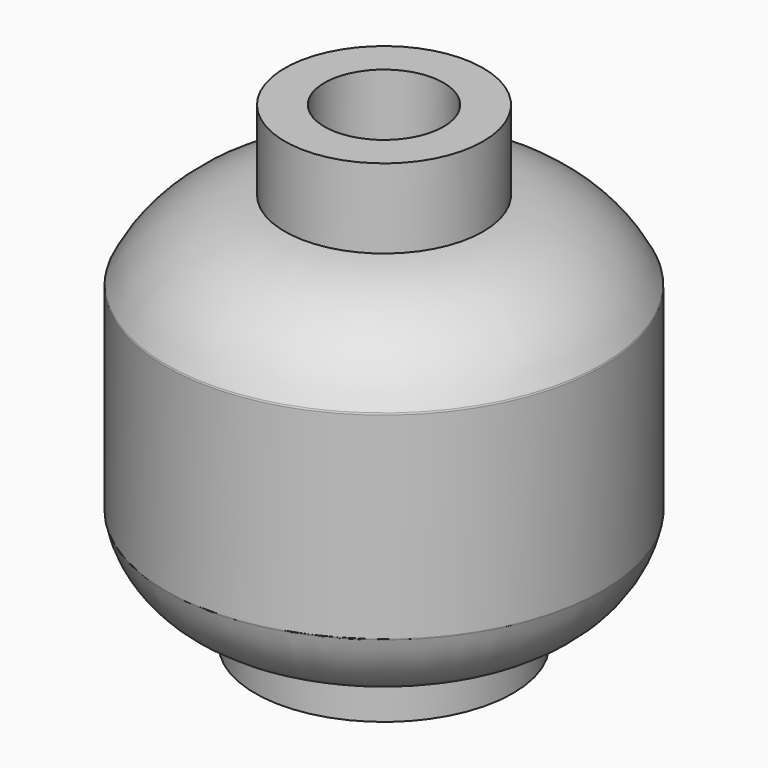
from build123d import *

# Parameters (mm, degrees)
F2_R     = 0.1
F3_R     = 0.6
F4_DEPTH = 25


with BuildPart() as f1:
    # F0 (on Front) → F1 (revolve)
    with BuildSketch(Plane.XZ):
        with BuildLine():
            Line((2.5, 6), (1.5, 6))
            Line((1.5, 6), (1.5, 3.25))
            ThreePointArc((1.5, 3.25), (3.149178, 2.983027), (4.5, 2))
            Line((4.5, 2), (4.5, -3))
            ThreePointArc((4.5, -3), (3.548227, -3.936809), (2.25, -4.25))
            Line((2.25, -4.25), (2.25, -6))
            Line((2.25, -6), (3.25, -6))
            Line((3.25, -6), (3.25, -5))
            ThreePointArc((3.25, -5), (4.70978, -4.376627), (5.5, -3))
            Line((5.5, -3), (5.5, 2))
            ThreePointArc((5.5, 2), (4.268624, 3.402936), (2.5, 4))
            Line((2.5, 4), (2.5, 6))
        make_face()
    revolve(axis=Axis((0, 0, 2), (0, 0, 1)))

    # F2
    f2_edges = [f1.edges().sort_by_distance(p)[0] for p in [
        (-5.5, 0, 2),
        (-5.5, 0, -3),
    ]]
    fillet(f2_edges, radius=F2_R)

    # F3 (on Right) → F4 (cut)
    with BuildSketch(Plane.YZ):
        with Locations((-2.5, 1)):
            Circle(F3_R)
        with Locations((2.5, 1)):
            Circle(F3_R)
        with BuildLine():
            Line((2, -0.5), (0, -0.5))
            Line((0, -0.5), (0, -2.5))
            ThreePointArc((0, -2.5), (1.310029, -1.810029), (2, -0.5))
        make_face()
        with BuildLine():
            Line((0, -2.5), (0, -0.5))
            Line((0, -0.5), (-2, -0.5))
            ThreePointArc((-2, -0.5), (-1.310029, -1.810029), (0, -2.5))
        make_face()
    extrude(amount=-F4_DEPTH, mode=Mode.SUBTRACT)


solid = f1.part
